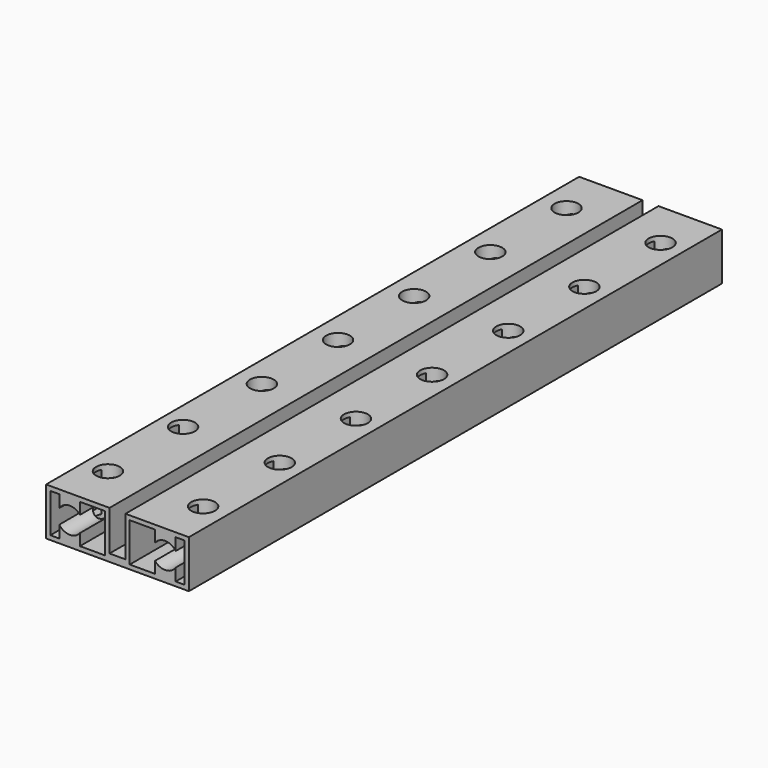
from build123d import *

# Parameters (mm, degrees)
F1_DEPTH = 112
F2_R     = 2
F3_DEPTH = 8.1


with BuildPart() as f1:
    # F0 (on Front) → F1 (new body)
    with BuildSketch(Plane.XZ):
        Polygon((-1.34, 4), (-12, 4), (-12, -4), (12, -4), (12, 4), (1.34, 4), (1.34, -2.75), (-1.34, -2.75), align=None)
        Polygon((-6.31, 3.28), (-2.06, 3.28), (-2.06, -3.28), (-6.31, -3.28), (-9.78, -3.28), (-11.28, -3.28), (-11.28, 3.28), (-9.78, 3.28), align=None, mode=Mode.SUBTRACT)
        Polygon((11.28, 3.28), (11.28, -3.28), (9.78, -3.28), (6.31, -3.28), (2.06, -3.28), (2.06, 3.28), (6.31, 3.28), (9.78, 3.28), align=None, mode=Mode.SUBTRACT)
        with BuildLine():
            Line((-6.31, 1.345177), (-6.31, 3.28))
            Line((-6.31, 3.28), (-9.78, 3.28))
            Line((-9.78, 3.28), (-9.78, 1.223601))
            ThreePointArc((-9.78, 1.223601), (-8.075632, 2.158675), (-6.31, 1.345177))
        make_face()
        with BuildLine():
            Line((-9.78, -3.28), (-6.31, -3.28))
            Line((-6.31, -3.28), (-6.31, -1.345177))
            ThreePointArc((-6.31, -1.345177), (-8.075632, -2.158675), (-9.78, -1.223601))
            Line((-9.78, -1.223601), (-9.78, -3.28))
        make_face()
        with BuildLine():
            Line((9.78, 1.223601), (9.78, 3.28))
            Line((9.78, 3.28), (6.31, 3.28))
            Line((6.31, 3.28), (6.31, 1.345177))
            ThreePointArc((6.31, 1.345177), (8.075632, 2.158675), (9.78, 1.223601))
        make_face()
        with BuildLine():
            Line((6.31, -3.28), (9.78, -3.28))
            Line((9.78, -3.28), (9.78, -1.223601))
            ThreePointArc((9.78, -1.223601), (8.075632, -2.158675), (6.31, -1.345177))
            Line((6.31, -1.345177), (6.31, -3.28))
        make_face()
    extrude(amount=F1_DEPTH)

    # F2 (on face) → F3 (cut)
    with BuildSketch(Plane.XY.offset(4)):
        with Locations((-8, -104)):
            Circle(F2_R)
        with Locations((8, -104)):
            Circle(F2_R)
        with Locations((-8.176223, -88)):
            Circle(F2_R)
        with Locations((8.085492, -88)):
            Circle(F2_R)
        with Locations((-7.726881, -72)):
            Circle(F2_R)
        with Locations((8.085492, -72)):
            Circle(F2_R)
        with Locations((-7.726881, -56)):
            Circle(F2_R)
        with Locations((8.085492, -56)):
            Circle(F2_R)
        with Locations((-7.726881, -40)):
            Circle(F2_R)
        with Locations((8.085492, -40)):
            Circle(F2_R)
        with Locations((8.085492, -24)):
            Circle(F2_R)
        with Locations((-7.726881, -24)):
            Circle(F2_R)
        with Locations((-7.726881, -8)):
            Circle(F2_R)
        with Locations((8.085492, -8)):
            Circle(F2_R)
    extrude(amount=-F3_DEPTH, mode=Mode.SUBTRACT)


solid = f1.part
